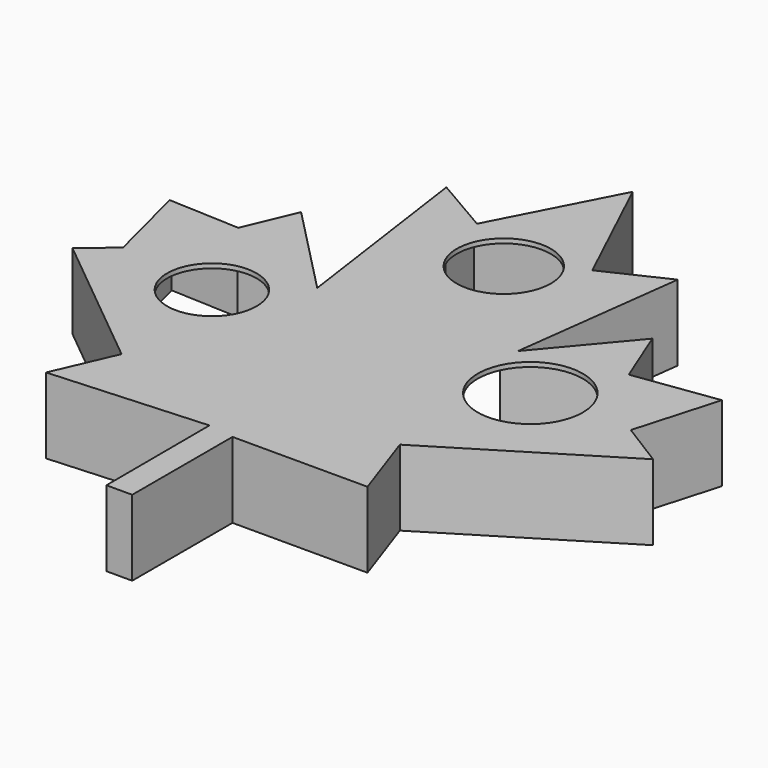
from build123d import *

# Parameters (mm, degrees)
F1_DEPTH = 17
F2_T     = -1
F3_R     = 14.3708631793
F4_DEPTH = 25
F5_R     = 10.5711008848
F5_R_2   = 10.0457234784
F5_R_3   = 11.8075026786
F6_DEPTH = 17


with BuildPart() as f1:
    # F0 (on Top) → F1 (new body)
    with BuildSketch(Plane.XY):
        Polygon((-37.4681577086, -50.3954030573), (-2.5307838805, -48.2072606683), (-2.4370756, -77.2388204932), (3.3520292491, -77.2388204932), (3.3520292491, -49.0849018097), (33.674325794, -49.0849018097), (28.1071402133, -33.0383218825), (66.2586987019, -9.6234139055), (56.2705285847, -3.4012699034), (61.6739653051, 15.4289007187), (42.8437963128, 12.8090493381), (37.5377945602, 26.0640811175), (22.0817681402, 7.6640532352), (27.0145568802, 46.333488356), (13.1010971963, 39.7568419576), (0, 67.4733370543), (-13.7401381508, 40.9238524735), (-26.589423418, 48.39893803), (-20.3813649714, 4.3794875965), (-40.5914485455, 25.1100063324), (-45.4480871558, 13.568257913), (-61.4539161325, 14.2708420753), (-56.5707497299, -4.8887040466), (-63.317425549, -10.6540471315), (-31.4872264862, -36.6830341518), align=None)
    extrude(amount=F1_DEPTH)

    # F2
    f2_openings = [f1.faces().sort_by_distance(p)[0] for p in [
        (-0.409278, -4.179109, 0),
    ]]
    offset(amount=F2_T, openings=f2_openings, kind=Kind.INTERSECTION)

    # F3 (on face) → F4 (cut)
    with BuildSketch(Plane.XY.offset(17)):
        with Locations((0, -27.5635700673)):
            Circle(F3_R)
    extrude(amount=F4_DEPTH, mode=Mode.SUBTRACT)

    # F5 (on Top) → F6 (cut)
    with BuildSketch(Plane.XY):
        with Locations((0, 31.2744565308)):
            Circle(F5_R)
        with Locations((-34.3855284154, -7.6958090067)):
            Circle(F5_R_2)
        with Locations((33.7305627763, -3.4385530744)):
            Circle(F5_R_3)
    extrude(amount=F6_DEPTH, mode=Mode.SUBTRACT)


solid = f1.part
